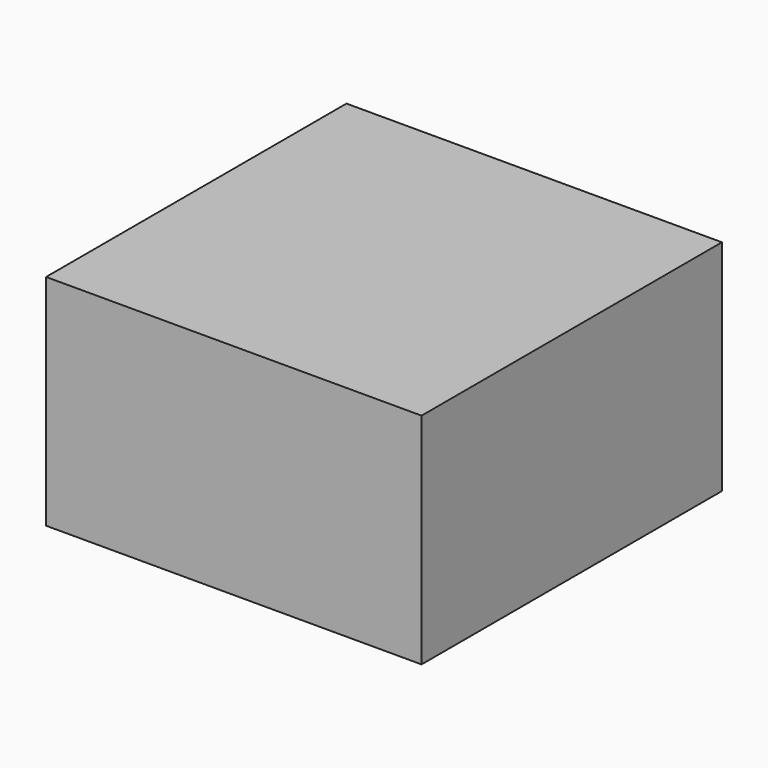
from build123d import *

# Parameters (mm, degrees)
BOX_W        = 3
BOX_H        = 4
BOX_DEPTH    = 4
BOX001_W     = 12
BOX001_H     = 12
BOX001_DEPTH = 7


with BuildPart() as cube:
    # Box → Box (new body)
    with BuildSketch(Plane(origin=(-1.5, -2, 0), x_dir=(1, 0, 0), z_dir=(0, 0, 1))):
        with Locations((1.5, 2)):
            Rectangle(BOX_W, BOX_H)
    extrude(amount=BOX_DEPTH)


with BuildPart() as sphere:
    # Sphere → Sphere (revolve)
    with BuildSketch(Plane.XZ):
        with BuildLine():
            ThreePointArc((0, -1.8), (1.8, 0), (0, 1.8))
            Line((0, 1.8), (0, -1.8))
        make_face()
    revolve(axis=Axis((0, 0, 0), (0, 0, 1)))


with BuildPart() as cube001:
    # Box001 → Box001 (new body)
    with BuildSketch(Plane(origin=(-6, -6, 0), x_dir=(1, 0, 0), z_dir=(0, 0, 1))):
        with Locations((6, 6)):
            Rectangle(BOX001_W, BOX001_H)
    extrude(amount=BOX001_DEPTH)


solid = Compound([cube.part, sphere.part, cube001.part])
